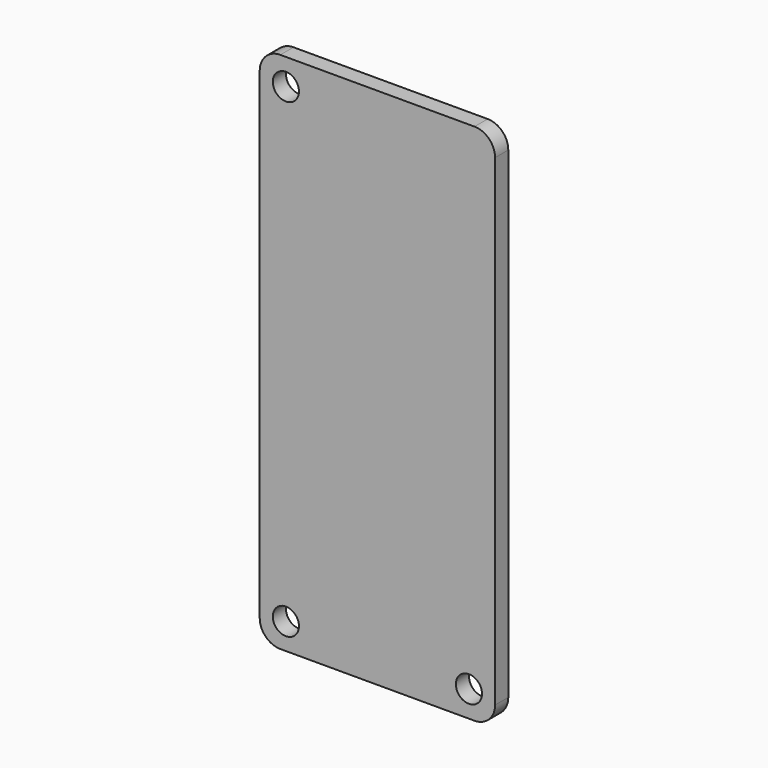
from build123d import *

# Parameters (mm, degrees)
F0_R     = 1.27
F1_DEPTH = 0.8


with BuildPart() as f1:
    # F0 (on Front) → F1 (new body, symmetric)
    with BuildSketch(Plane.XZ):
        with BuildLine():
            Line((-9.43, -25.4), (9.43, -25.4))
            ThreePointArc((9.43, -25.4), (10.844214, -24.814214), (11.43, -23.4))
            Line((11.43, -23.4), (11.43, 23.4))
            ThreePointArc((11.43, 23.4), (10.844214, 24.814214), (9.43, 25.4))
            Line((9.43, 25.4), (-9.43, 25.4))
            ThreePointArc((-9.43, 25.4), (-10.844214, 24.814214), (-11.43, 23.4))
            Line((-11.43, 23.4), (-11.43, -23.4))
            ThreePointArc((-11.43, -23.4), (-10.844214, -24.814214), (-9.43, -25.4))
        make_face()
        with Locations((-8.89, -22.86)):
            Circle(F0_R, mode=Mode.SUBTRACT)
        with Locations((8.89, -22.86)):
            Circle(F0_R, mode=Mode.SUBTRACT)
        with Locations((-8.89, 22.86)):
            Circle(F0_R, mode=Mode.SUBTRACT)
    extrude(amount=F1_DEPTH, both=True)


solid = f1.part
